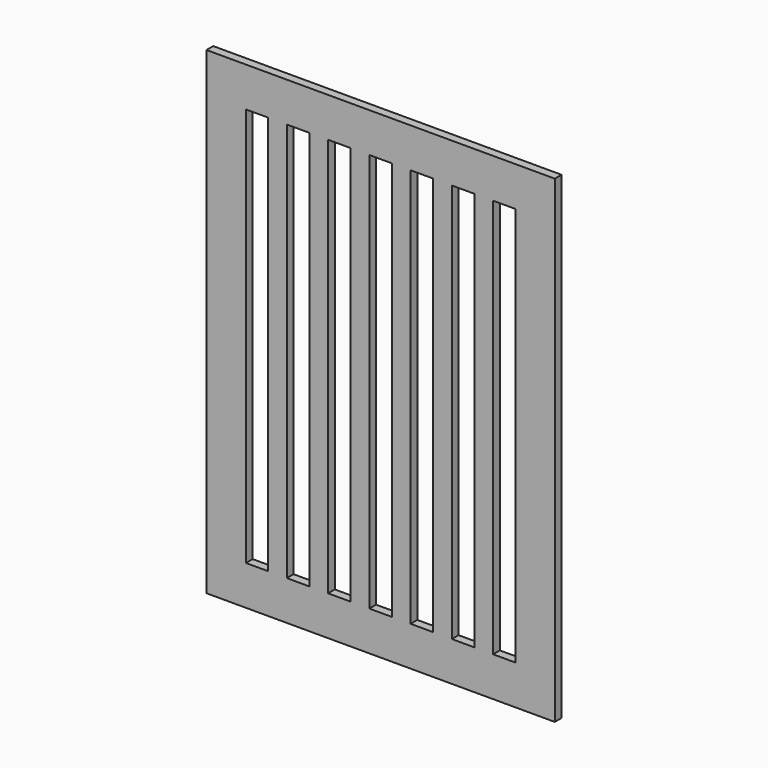
from build123d import *

# Parameters (mm, degrees)
F0_W     = 785
F0_H     = 1078
F0_W_2   = 607
F0_H_2   = 900
F1_DEPTH = 19
F2_W     = 42
F2_H     = 19
F3_DEPTH = 900


with BuildPart() as f1:
    # F0 (on Front) → F1 (new body)
    with BuildSketch(Plane.XZ):
        Rectangle(F0_W, F0_H)
        Rectangle(F0_W_2, F0_H_2, mode=Mode.SUBTRACT)
    extrude(amount=F1_DEPTH)

    # F2 (on face) → F3 (join, through all)
    with BuildSketch(Plane(origin=(0, 0, 450), x_dir=(1, 0, 0), z_dir=(0, 0, -1))):
        with Locations((-232.5, 9.5)):
            Rectangle(F2_W, F2_H)
        with Locations((-139.5, 9.5)):
            Rectangle(F2_W, F2_H)
        with Locations((-46.5, 9.5)):
            Rectangle(F2_W, F2_H)
        with Locations((46.5, 9.5)):
            Rectangle(F2_W, F2_H)
        with Locations((139.5, 9.5)):
            Rectangle(F2_W, F2_H)
        with Locations((232.5, 9.5)):
            Rectangle(F2_W, F2_H)
    extrude(amount=F3_DEPTH)


solid = f1.part
